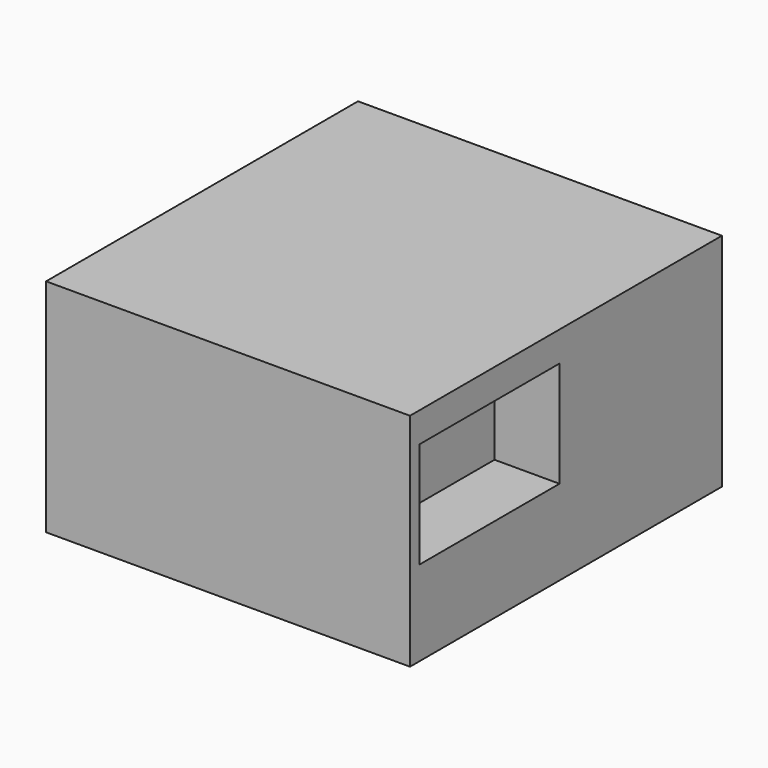
from build123d import *

# Parameters (mm, degrees)
F0_W     = 140
F0_H     = 150
F1_DEPTH = 85
F2_W     = 67.2
F2_H     = 40.727277
F3_DEPTH = 25
F4_R     = 2.5
F5_DEPTH = 5


with BuildPart() as f1:
    # F0 (on Top) → F1 (new body)
    with BuildSketch(Plane.XY):
        with Locations((-15.446518, -2.435212)):
            Rectangle(F0_W, F0_H)
    extrude(amount=F1_DEPTH)

    # F2 (on face) → F3 (cut)
    with BuildSketch(Plane.YZ.offset(54.553482)):
        with Locations((-39.144876, 53.109092)):
            Rectangle(F2_W, F2_H)
    extrude(amount=-F3_DEPTH, mode=Mode.SUBTRACT)

    # F4 (on face) → F5 (cut)
    with BuildSketch(Plane(origin=(-85.446518, 0, 0), x_dir=(0, -1, 0), z_dir=(-1, 0, 0))):
        with Locations((-66.875344, 79)):
            Circle(F4_R)
        with Locations((-42.564788, 79)):
            Circle(F4_R)
        with Locations((-66.875344, 16)):
            Circle(F4_R)
        with Locations((-66.875344, 6)):
            Circle(F4_R)
        with Locations((47.435212, 6)):
            Circle(F4_R)
        with Locations((71.435212, 6)):
            Circle(F4_R)
        with Locations((71.435212, 79)):
            Circle(F4_R)
        with Locations((71.435212, 69)):
            Circle(F4_R)
    extrude(amount=-F5_DEPTH, mode=Mode.SUBTRACT)


solid = f1.part
